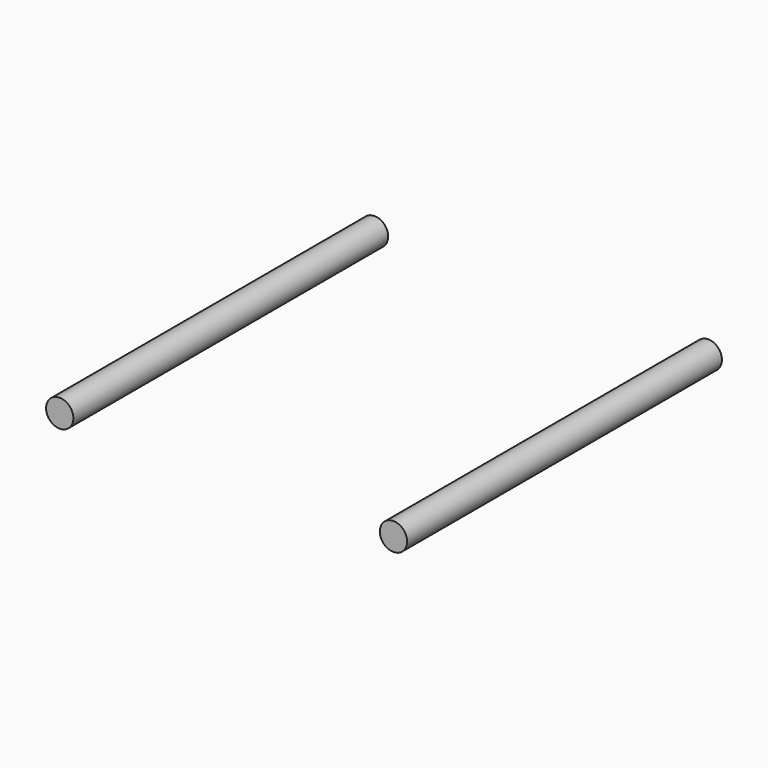
from build123d import *

# Parameters (mm, degrees)
F0_R     = 15.596854
F1_DEPTH = 225


with BuildPart() as f1:
    # F0 (on Front) → F1 (new body, symmetric)
    with BuildSketch(Plane.XZ):
        with Locations((190.811977, -58.642086)):
            Circle(F0_R)
    extrude(amount=F1_DEPTH, both=True)


with BuildPart() as f2_1:
    # F2: instance of F1
    add(f1.part.mirror(Plane.YZ))


solid = Compound([f1.part, f2_1.part])
